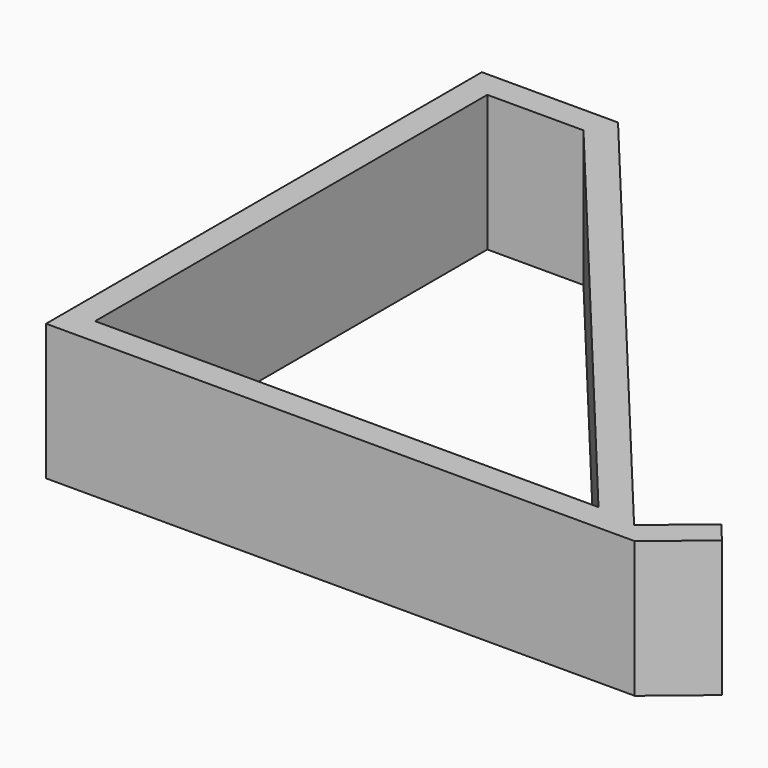
from build123d import *

# Parameters (mm, degrees)
F1_DEPTH = 25.4


with BuildPart() as f1:
    # F0 (on Top) → F1 (new body)
    with BuildSketch(Plane.XY):
        Polygon((-25.4, 0), (0, 0), (84.395298, 0), (94.164529, 8.114933), (90.918556, 12.022625), (81.149325, 3.907692), (0, 101.6), (-25.4, 101.6), align=None)
        Polygon((-20.32, 96.52), (-2.384235, 96.52), (73.571534, 5.08), (0, 5.08), (-20.32, 5.08), align=None, mode=Mode.SUBTRACT)
    extrude(amount=F1_DEPTH)


solid = f1.part
